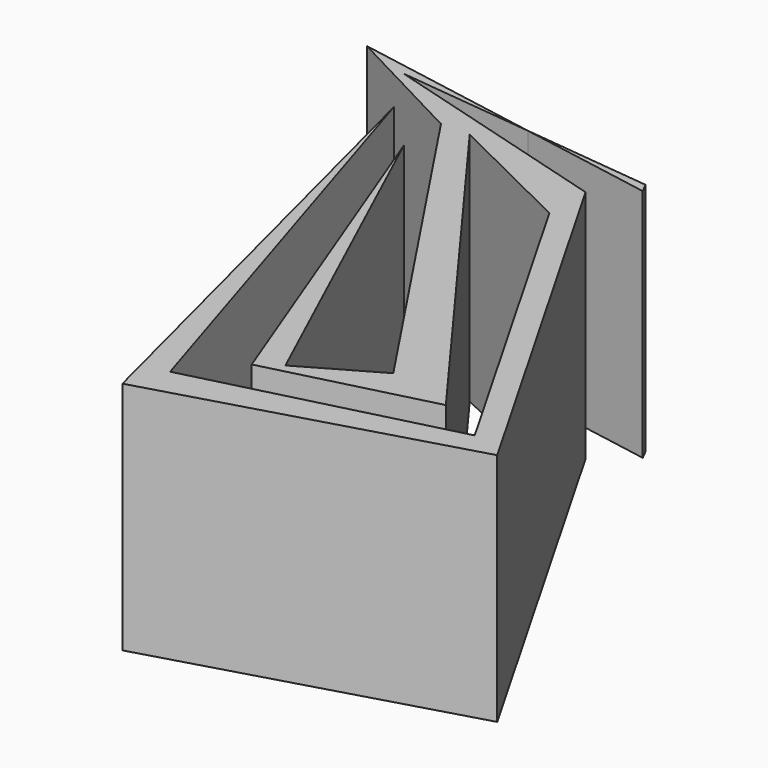
from build123d import *

# Parameters (mm, degrees)
F1_DEPTH = 25.4


with BuildPart() as f1:
    # F0 (on Top) → F1 (new body)
    with BuildSketch(Plane.XY):
        Polygon((-18.813158, 31.514846), (-4.350921, 28.950009), (-4.8895, 30.003751), align=None)
        Polygon((-33.559751, 33.115253), (-18.813158, 31.514846), (-39.115999, 35.115499), (-25.3365, 27.89825), (0, -10.218336), (-8.001, -14.808383), (-25.3365, 22.891751), (-10.336284, -16.446501), (7.112001, -12.0015), (-22.225, 27.89825), (-8.001, 20.887932), (12.477411, -14.808383), (-14.89075, -21.7805), (-30.400311, 27.89825), (-16.66875, -26.003249), (16.22425, -16.446501), (-8.001, 25.781002), align=None)
    extrude(amount=F1_DEPTH)


solid = f1.part
